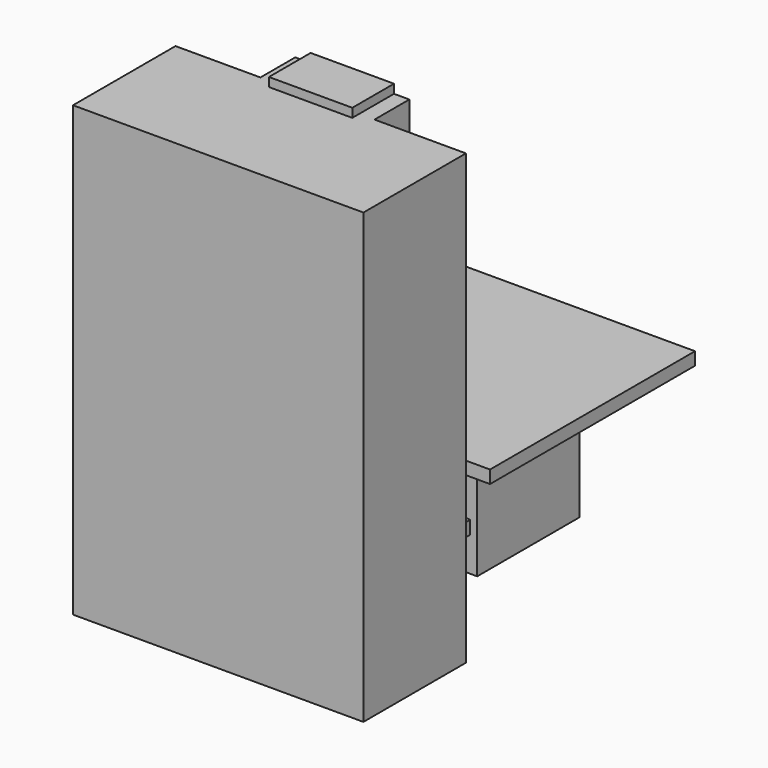
from build123d import *

# Parameters (mm, degrees)
F0_W     = 1524
F0_H     = 1524
F1_DEPTH = 76.2
F2_W     = 762
F2_H     = 762
F3_DEPTH = 762
F5_DEPTH = 762
F7_DEPTH = 2667
F8_W     = 495.782912
F8_H     = 1780.032
F9_DEPTH = 309.88


with BuildPart() as f1:
    # F0 (on Top) → F1 (new body)
    with BuildSketch(Plane.XY):
        Rectangle(F0_W, F0_H)
    extrude(amount=-F1_DEPTH)

    # F2 (on face) → F3 (join)
    with BuildSketch(Plane(origin=(0, 0, -76.2), x_dir=(1, 0, 0), z_dir=(0, 0, -1))):
        Rectangle(F2_W, F2_H)
    extrude(amount=F3_DEPTH)

    # F4 (on face) → F5 (join)
    with BuildSketch(Plane.XZ.offset(381)):
        Polygon((-247.891456, -633.963466), (-247.891456, -838.2), (247.891456, -838.2), (247.891456, -633.963466), (339.186549, -633.963466), (339.186549, -555.348217), (0, -527.452528), (-339.186549, -555.348217), (-339.186549, -633.963466), align=None)
    extrude(amount=F5_DEPTH)

    # F6 (on face) → F7 (join)
    with BuildSketch(Plane(origin=(0, 0, -838.2), x_dir=(1, 0, 0), z_dir=(0, 0, -1))):
        Polygon((882.891456, 1092.2), (882.891456, 1854.2), (-844.308544, 1854.2), (-844.308544, 1092.2), (-339.186549, 1092.2), (-339.186549, 833.12), (-247.891456, 833.12), (-247.891456, 1143), (247.891456, 1143), (247.891456, 833.12), (339.186549, 833.12), (339.186549, 1092.2), align=None)
    extrude(amount=-F7_DEPTH)

    # F8 (on face) → F9 (join, through all)
    with BuildSketch(Plane(origin=(0, -1143, 0), x_dir=(-1, 0, 0), z_dir=(0, 1, 0))):
        with Locations((0, 991.616)):
            Rectangle(F8_W, F8_H)
    extrude(amount=F9_DEPTH)


solid = f1.part
